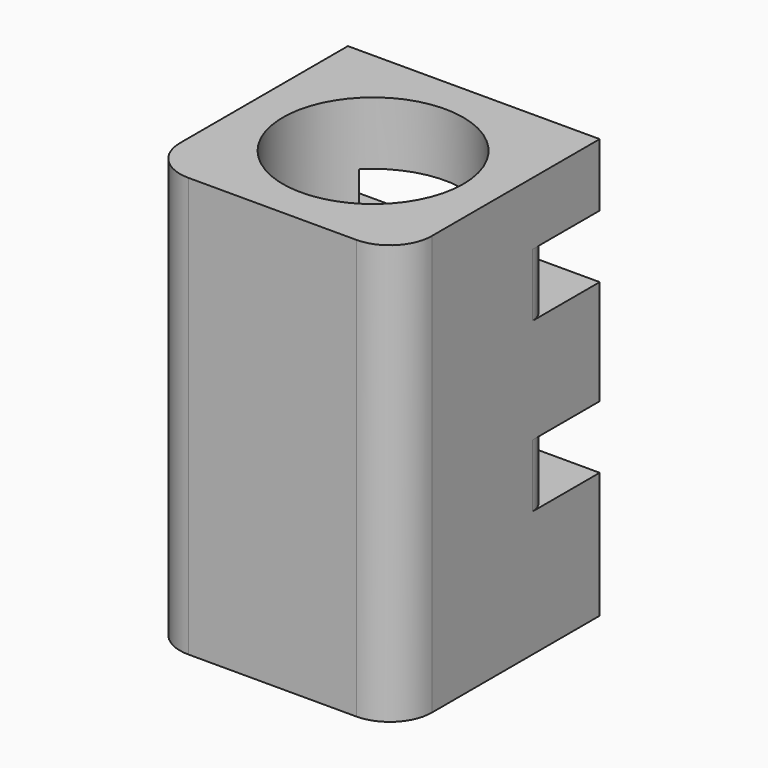
from build123d import *

# Parameters (mm, degrees)
BOX002_W       = 12
BOX002_H       = 3
BOX002_DEPTH   = 3
BOX003_W       = 12
BOX003_H       = 3
BOX003_DEPTH   = 3
CYLINDER_R     = 4.3
CYLINDER_DEPTH = 20
BOX_W          = 12
BOX_H          = 12
BOX_DEPTH      = 20
FILLET_R       = 2
FILLET001_R    = 1


with BuildPart() as cube002:
    # Box002 → Box002 (new body)
    with BuildSketch(Plane(origin=(-6, 3, 14), x_dir=(1, 0, 0), z_dir=(0, 0, 1))):
        with Locations((6, 1.5)):
            Rectangle(BOX002_W, BOX002_H)
    extrude(amount=BOX002_DEPTH)


with BuildPart() as fusion001:
    # Box003 → Box003 (new body)
    with BuildSketch(Plane(origin=(-6, 3, 6), x_dir=(1, 0, 0), z_dir=(0, 0, 1))):
        with Locations((6, 1.5)):
            Rectangle(BOX003_W, BOX003_H)
    extrude(amount=BOX003_DEPTH)

    # Fusion001: union Cube002
    add(cube002.part)


with BuildPart() as cylinder:
    # Cylinder → Cylinder (new body)
    with BuildSketch(Plane.XY):
        Circle(CYLINDER_R)
    extrude(amount=CYLINDER_DEPTH)


with BuildPart() as fillet001:
    # Box → Box (new body)
    with BuildSketch(Plane(origin=(-6, -6, 0), x_dir=(1, 0, 0), z_dir=(0, 0, 1))):
        with Locations((6, 6)):
            Rectangle(BOX_W, BOX_H)
    extrude(amount=BOX_DEPTH)

    # Cut: cut Cylinder
    add(cylinder.part, mode=Mode.SUBTRACT)

    # Cut001: cut Fusion001
    add(fusion001.part, mode=Mode.SUBTRACT)

    # Fillet
    fillet_edges = [fillet001.edges().sort_by_distance(p)[0] for p in [
        (-6, -6, 10),
        (6, -6, 10),
    ]]
    fillet(fillet_edges, radius=FILLET_R)

    # Fillet001
    fillet001_edges = [fillet001.edges().sort_by_distance(p)[0] for p in [
        (-6, 3, 15.5),
        (-6, 3, 7.5),
        (6, 3, 15.5),
        (6, 3, 7.5),
    ]]
    fillet(fillet001_edges, radius=FILLET001_R)


solid = fillet001.part
